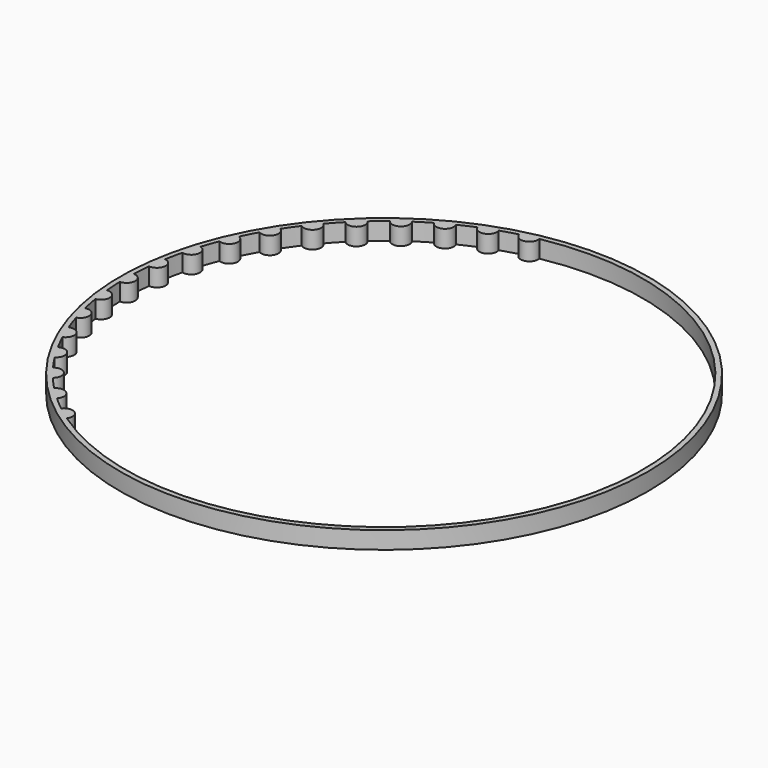
from build123d import *

# Parameters (mm, degrees)
F0_R     = 76
F1_DEPTH = 5


with BuildPart() as f1:
    # F0 (on Top) → F1 (new body)
    with BuildSketch(Plane.XY):
        Circle(F0_R)
        with BuildLine():
            ThreePointArc((-62.418735, 40.671262), (-61.016952, 42.745544), (-59.546266, 44.771556))
            ThreePointArc((-59.546266, 44.771556), (-56.063887, 45.175664), (-56.409509, 48.664333))
            ThreePointArc((-56.409509, 48.664333), (-54.742554, 50.532195), (-53.013782, 52.342993))
            ThreePointArc((-53.013782, 52.342993), (-49.508654, 52.277081), (-49.38394, 55.78061))
            ThreePointArc((-49.38394, 55.78061), (-47.481849, 57.408397), (-45.526138, 58.971355))
            ThreePointArc((-45.526138, 58.971355), (-42.061413, 58.436611), (-41.468611, 61.891876))
            ThreePointArc((-41.468611, 61.891876), (-39.365653, 63.25026), (-37.21824, 64.537219))
            ThreePointArc((-37.21824, 64.537219), (-33.856344, 63.543276), (-32.806134, 66.888023))
            ThreePointArc((-32.806134, 66.888023), (-30.540198, 67.95253), (-28.239774, 68.940302))
            ThreePointArc((-28.239774, 68.940302), (-25.041278, 67.50507), (-23.552582, 70.679034))
            ThreePointArc((-23.552582, 70.679034), (-21.164494, 71.430485), (-18.752505, 72.101273))
            ThreePointArc((-18.752505, 72.101273), (-15.775038, 70.25061), (-13.874678, 73.196607))
            ThreePointArc((-13.874678, 73.196607), (72.897282, -15.369978), (-42.245993, -61.363882))
            ThreePointArc((-42.245993, -61.363882), (-42.795165, -57.901415), (-46.266359, -58.392414))
            ThreePointArc((-46.266359, -58.392414), (-48.202199, -56.804911), (-50.083607, -55.153262))
            ThreePointArc((-50.083607, -55.153262), (-50.164119, -51.648438), (-53.6698, -51.670133))
            ThreePointArc((-53.6698, -51.670133), (-55.375594, -49.837673), (-57.018855, -47.948933))
            ThreePointArc((-57.018855, -47.948933), (-56.629255, -44.464901), (-60.10626, -44.0169))
            ThreePointArc((-60.10626, -44.0169), (-61.551274, -41.972498), (-62.926781, -39.880699))
            ThreePointArc((-62.926781, -39.880699), (-62.074091, -36.480231), (-65.459774, -35.570605))
            ThreePointArc((-65.459774, -35.570605), (-66.617973, -33.351097), (-67.700943, -31.093926))
            ThreePointArc((-67.700943, -31.093926), (-66.400525, -27.838288), (-69.633886, -26.483428))
            ThreePointArc((-69.633886, -26.483428), (-70.484402, -24.128802), (-71.255323, -21.746928))
            ThreePointArc((-71.255323, -21.746928), (-69.530607, -18.694778), (-72.553389, -16.919093))
            ThreePointArc((-72.553389, -16.919093), (-73.080899, -14.471773), (-73.525882, -12.00811))
            ThreePointArc((-73.525882, -12.00811), (-71.407941, -9.214439), (-74.165683, -7.049924))
            ThreePointArc((-74.165683, -7.049924), (-74.361253, -4.54467), (-74.472222, -2.034247))
            ThreePointArc((-74.472222, -2.034247), (-71.998594, 0.44999), (-74.440977, 2.964952))
            ThreePointArc((-74.440977, 2.964952), (-74.298325, 5.478033), (-74.070858, 7.984861))
            ThreePointArc((-74.070858, 7.984861), (-71.286033, 10.11442), (-73.368567, 12.934583))
            ThreePointArc((-73.368567, 12.934583), (-72.892543, 15.392437), (-72.334206, 17.832909))
            ThreePointArc((-72.334206, 17.832909), (-69.289266, 19.570324), (-70.975347, 22.643986))
            ThreePointArc((-70.975347, 22.643986), (-70.174443, 25.015946), (-69.294294, 27.359657))
            ThreePointArc((-69.294294, 27.359657), (-66.044101, 28.673625), (-67.30335, 31.945407))
            ThreePointArc((-67.30335, 31.945407), (-66.191995, 34.188738), (-65.005892, 36.393461))
            ThreePointArc((-65.005892, 36.393461), (-61.609005, 37.260308), (-62.418735, 40.671262))
        make_face(mode=Mode.SUBTRACT)
    extrude(amount=F1_DEPTH)


solid = f1.part
